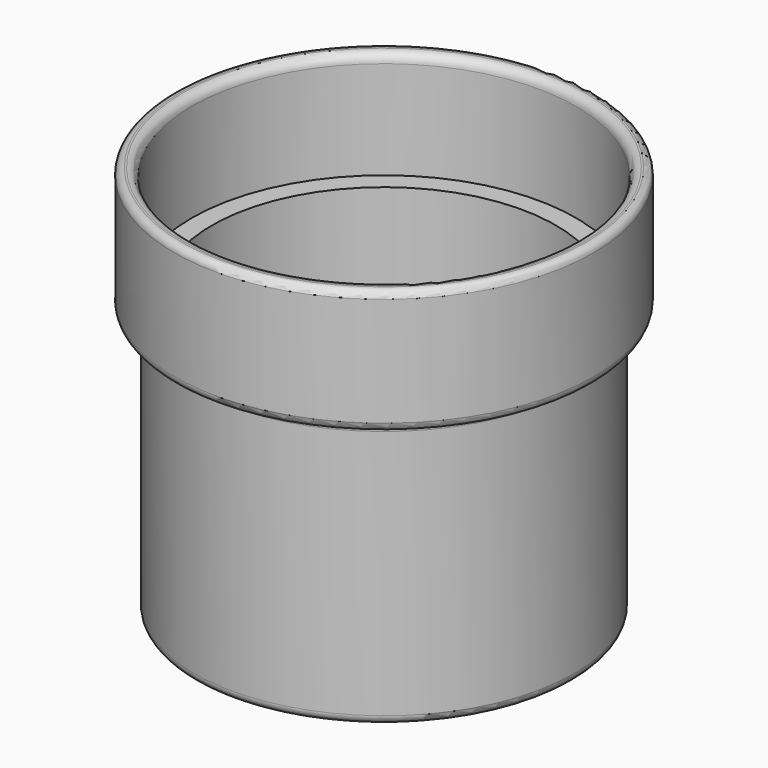
from build123d import *

# Parameters (mm, degrees)
SKETCH_R      = 21.25
SKETCH_R_2    = 19.25
PAD_DEPTH     = 30
SKETCH001_R   = 23.5
SKETCH001_R_2 = 19.25
PAD001_DEPTH  = 2
SKETCH002_R   = 23.5
SKETCH002_R_2 = 21.5
PAD002_DEPTH  = 12
FILLET_R      = 0.8
FILLET001_R   = 1
FILLET002_R   = 1
FILLET003_R   = 1
FILLET004_R   = 1
FILLET005_R   = 0.8


with BuildPart() as part:
    # Sketch → Pad (new body)
    with BuildSketch(Plane.XY):
        Circle(SKETCH_R)
        Circle(SKETCH_R_2, mode=Mode.SUBTRACT)
    extrude(amount=PAD_DEPTH)

    # Sketch001 (on Face4 of Pad) → Pad001 (join)
    with BuildSketch(Plane.XY.offset(30)):
        Circle(SKETCH001_R)
        Circle(SKETCH001_R_2, mode=Mode.SUBTRACT)
    extrude(amount=PAD001_DEPTH)

    # Sketch002 (on Face7 of Pad001) → Pad002 (join)
    with BuildSketch(Plane.XY.offset(32)):
        Circle(SKETCH002_R)
        Circle(SKETCH002_R_2, mode=Mode.SUBTRACT)
    extrude(amount=PAD002_DEPTH)

    # Fillet
    fillet_edges = [part.edges().sort_by_distance(p)[0] for p in [
        (-23.5, 0, 44),
    ]]
    fillet(fillet_edges, radius=FILLET_R)

    # Fillet001
    fillet001_edges = [part.edges().sort_by_distance(p)[0] for p in [
        (-21.5, 0, 44),
    ]]
    fillet(fillet001_edges, radius=FILLET001_R)

    # Fillet002
    fillet002_edges = [part.edges().sort_by_distance(p)[0] for p in [
        (-23.5, 0, 30),
    ]]
    fillet(fillet002_edges, radius=FILLET002_R)

    # Fillet003
    fillet003_edges = [part.edges().sort_by_distance(p)[0] for p in [
        (-21.25, 0, 30),
    ]]
    fillet(fillet003_edges, radius=FILLET003_R)

    # Fillet004
    fillet004_edges = [part.edges().sort_by_distance(p)[0] for p in [
        (-21.25, 0, 0),
    ]]
    fillet(fillet004_edges, radius=FILLET004_R)

    # Fillet005
    fillet005_edges = [part.edges().sort_by_distance(p)[0] for p in [
        (-20.25, 0, 0),
        (-19.25, 0, 0),
    ]]
    fillet(fillet005_edges, radius=FILLET005_R)


solid = part.part
